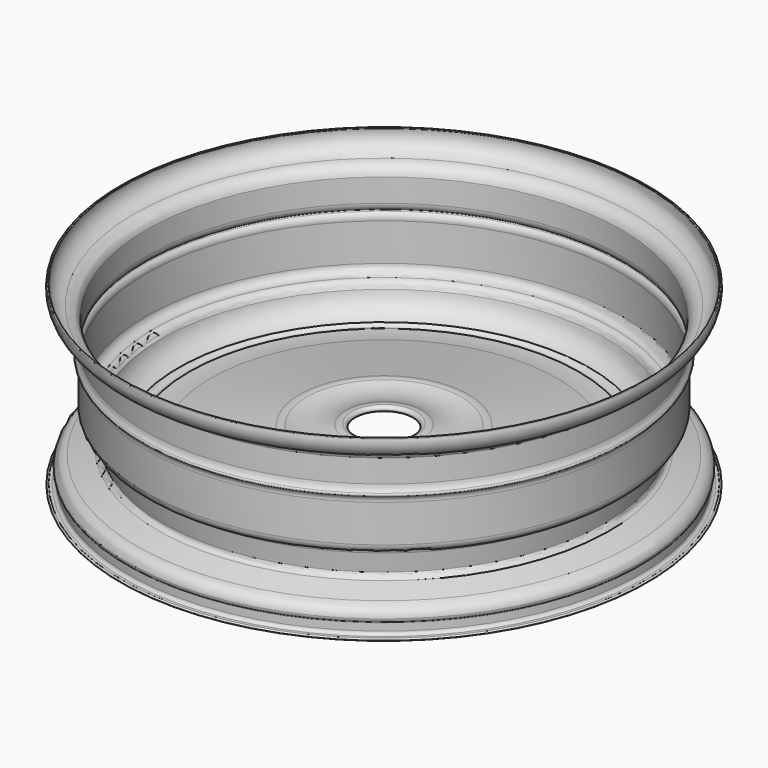
from build123d import *


with BuildPart() as f2:
    # F1 (on Right) → F2 (revolve)
    with BuildSketch(Plane.YZ):
        with BuildLine():
            ThreePointArc((-33.610150218, 16.5431248024), (-33.71004574, 16.6337719013), (-33.809941262, 16.5431248024))
            ThreePointArc((-33.809941262, 16.5431248024), (-33.451514872, 14.821866156), (-31.9496653974, 13.9077277854))
            ThreePointArc((-31.9496653974, 13.9077277854), (-31.0959831072, 13.5472001002), (-30.6319631636, 12.7450535074))
            Line((-30.6319631636, 12.7450535074), (-30.6319631636, 9.7996098921))
            ThreePointArc((-30.6319631636, 9.7996098921), (-30.7191867252, 9.3342532454), (-30.9690162539, 8.9320717379))
            ThreePointArc((-30.9690162539, 8.9320717379), (-31.0614109888, 8.7493062019), (-30.9690162539, 8.5665406659))
            ThreePointArc((-30.9690162539, 8.5665406659), (-30.6841025049, 8.1977284546), (-30.6319631636, 7.7346088365))
            Line((-30.6319631636, 7.7346088365), (-30.6319631636, 2.928446047))
            ThreePointArc((-30.6319631636, 2.928446047), (-30.2624220544, 2.0761532369), (-29.3877124786, 1.7633484676))
            ThreePointArc((-29.3877124786, 1.7633484676), (-28.9139871393, 1.5022503661), (-28.6886319518, 1.0105157271))
            Line((-28.6886319518, 1.0105157271), (-28.4325517583, -1.2859206562))
            ThreePointArc((-28.4325517583, -1.2859206562), (-28.5676458923, -1.7413380248), (-28.9882086217, -1.9622053951))
            Line((-28.9882086217, -1.9622053951), (-31.7492320903, -2.7893810644))
            ThreePointArc((-31.7492320903, -2.7893810644), (-32.6728130179, -3.2117555511), (-33.1166870892, -4.1251983494))
            ThreePointArc((-33.1166870892, -4.1251983494), (-33.0623355343, -4.3778482534), (-32.9092890024, -4.5860856771))
            ThreePointArc((-32.9092890024, -4.5860856771), (-32.8618754132, -4.6413046846), (-32.8491814435, -4.7129709274))
            Line((-32.8491814435, -4.7129709274), (-32.8491814435, -5.6504616514))
            ThreePointArc((-32.8491814435, -5.6504616514), (-32.9647092459, -5.9362740834), (-33.2463942468, -6.0615297407))
            ThreePointArc((-33.2463942468, -6.0615297407), (-33.4273483604, -6.0735649781), (-33.608302474, -6.0615297407))
            ThreePointArc((-33.608302474, -6.0615297407), (-33.7843314434, -6.0483432199), (-33.809941262, -6.2229977921))
            ThreePointArc((-33.809941262, -6.2229977921), (-33.7053888789, -6.2872377148), (-33.6172170937, -6.2018930912))
            Line((-33.6172170937, -6.2018930912), (-33.2276746631, -6.2018930912))
            ThreePointArc((-33.2276746631, -6.2018930912), (-32.8389388814, -6.0624726778), (-32.6747708023, -5.6835236028))
            Line((-32.6747708023, -5.6835236028), (-32.6747708023, -4.7166775912))
            ThreePointArc((-32.6747708023, -4.7166775912), (-32.6939660805, -4.591718988), (-32.7743627131, -4.4941511005))
            ThreePointArc((-32.7743627131, -4.4941511005), (-32.9127432213, -4.3387295634), (-32.9546369612, -4.1348915547))
            ThreePointArc((-32.9546369612, -4.1348915547), (-32.5618418131, -3.3202050214), (-31.7397862673, -2.943075262))
            Line((-31.7397862673, -2.943075262), (-28.964150697, -2.1143155172))
            ThreePointArc((-28.964150697, -2.1143155172), (-28.4378064911, -1.8611730424), (-28.267885512, -1.3023831029))
            Line((-28.267885512, -1.3023831029), (-28.4131168449, 0))
            ThreePointArc((-28.4131168449, 0), (-28.0440964441, -0.9463716972), (-27.2526722401, -1.5831158962))
            ThreePointArc((-27.2526722401, -1.5831158962), (-26.8803220292, -1.7453930675), (-26.4842544694, -1.8354433199))
            ThreePointArc((-26.4842544694, -1.8354433199), (-25.7463530853, -2.2868817952), (-25.0055275973, -1.8402580765))
            ThreePointArc((-25.0055275973, -1.8402580765), (-23.5861736556, -1.7513108071), (-22.1759416163, -1.5676730545))
            Line((-22.1759416163, -1.5676730545), (-10.7145677727, 0.3165646429))
            ThreePointArc((-10.7145677727, 0.3165646429), (-10.3509926906, 0.3462510751), (-9.9874176085, 0.3165646429))
            ThreePointArc((-9.9874176085, 0.3165646429), (-7.4634021148, -0.134794601), (-4.9393866211, 0.3165646429))
            ThreePointArc((-4.9393866211, 0.3165646429), (-4.6060726771, 0.4594623819), (-4.2438963428, 0.4780702293))
            ThreePointArc((-4.2438963428, 0.4780702293), (-4.0836703603, 0.4449794549), (-3.9822948165, 0.3165646429))
            ThreePointArc((-3.9822948165, 0.3165646429), (-3.8224268937, 0.1256872946), (-3.662558971, 0.3165646429))
            ThreePointArc((-3.662558971, 0.3165646429), (-3.8166806639, 0.6138467112), (-4.1320654564, 0.7263747393))
            ThreePointArc((-4.1320654564, 0.7263747393), (-4.5475013724, 0.7205130571), (-4.9393866211, 0.5825010594))
            ThreePointArc((-4.9393866211, 0.5825010594), (-7.4236000092, 0.0452705131), (-9.9281193689, 0.4780702293))
            ThreePointArc((-9.9281193689, 0.4780702293), (-10.3768683039, 0.5427273226), (-10.8256172389, 0.4780702293))
            Line((-10.8256172389, 0.4780702293), (-22.2120727402, -1.3938509721))
            ThreePointArc((-22.2120727402, -1.3938509721), (-23.5969482001, -1.5506045719), (-24.9905623496, -1.5676730545))
            ThreePointArc((-24.9905623496, -1.5676730545), (-25.6818933412, -1.9790141373), (-26.3732243329, -1.5676730545))
            ThreePointArc((-26.3732243329, -1.5676730545), (-27.828127928, -0.5878219983), (-28.5435244441, 1.0137585923))
            ThreePointArc((-28.5435244441, 1.0137585923), (-28.82131188, 1.6013784491), (-29.3969586492, 1.9031958655))
            ThreePointArc((-29.3969586492, 1.9031958655), (-30.1709745101, 2.1759936429), (-30.4985940456, 2.928446047))
            Line((-30.4985940456, 2.928446047), (-30.4985940456, 7.7216299251))
            ThreePointArc((-30.4985940456, 7.7216299251), (-30.5303206388, 8.2360319434), (-30.8344498515, 8.6521105841))
            ThreePointArc((-30.8344498515, 8.6521105841), (-30.8912185761, 8.7601970881), (-30.8344498515, 8.8682835922))
            ThreePointArc((-30.8344498515, 8.8682835922), (-30.5531409371, 9.2639815253), (-30.4538309574, 9.7392173484))
            Line((-30.4538309574, 9.7392173484), (-30.4538309574, 12.7211762592))
            ThreePointArc((-30.4538309574, 12.7211762592), (-30.9773085163, 13.6320772508), (-31.9356843829, 14.0625247732))
            ThreePointArc((-31.9356843829, 14.0625247732), (-33.2953122699, 14.9501953762), (-33.610150218, 16.5431248024))
        make_face()
    revolve(axis=Axis((0, 0, 0), (0, 0, 1)))


solid = f2.part
